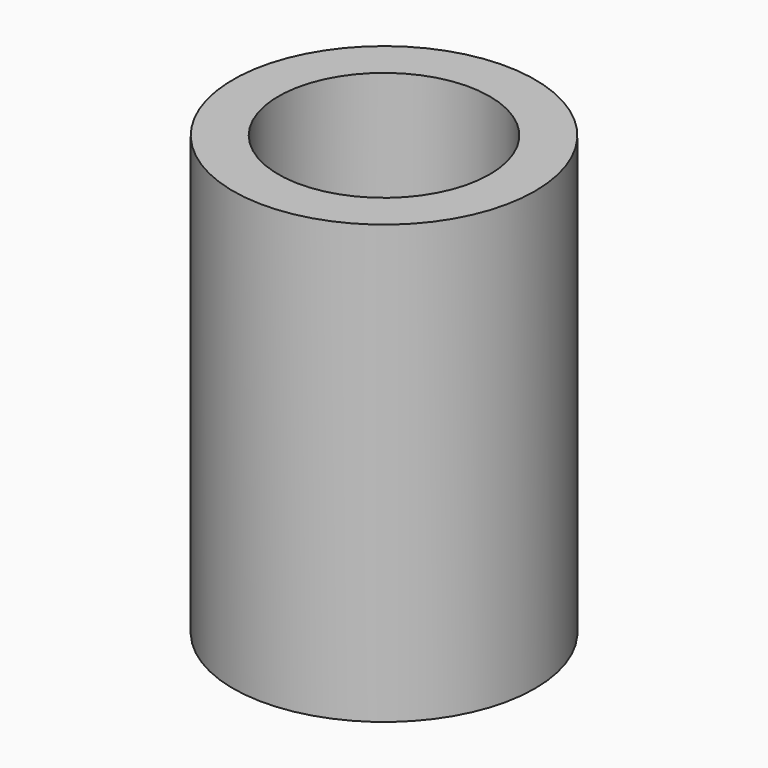
from build123d import *

# Parameters (mm, degrees)
SKETCH_R   = 2.5
SKETCH_R_2 = 1.75
PAD_DEPTH  = 7.25


with BuildPart() as part:
    # Sketch → Pad (new body)
    with BuildSketch(Plane.XY):
        Circle(SKETCH_R)
        Circle(SKETCH_R_2, mode=Mode.SUBTRACT)
    extrude(amount=PAD_DEPTH)


solid = part.part
